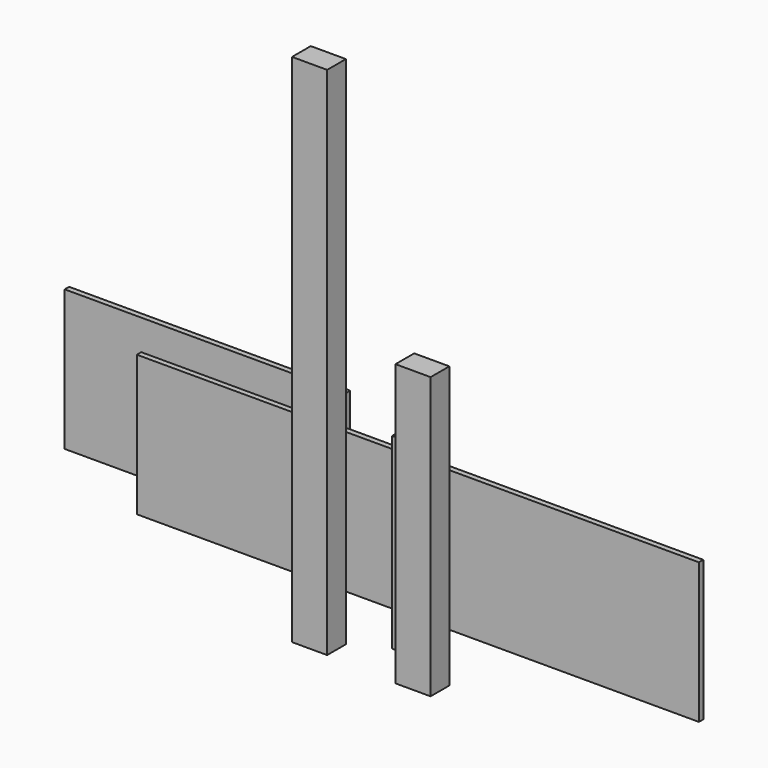
from build123d import *

# Parameters (mm, degrees)
F0_W     = 76.2
F0_H     = 50.8
F1_DEPTH = 406.4
F2_DEPTH = 609.6
F3_DEPTH = 1117.6
F0_W_2   = 1219.2
F0_H_2   = 11.938
F4_DEPTH = 304.8
F0_W_3   = 609.6
F5_DEPTH = 304.8


with BuildPart() as f1:
    # F0 (on Top) → F1 (new body)
    with BuildSketch(Plane.XY):
        Rectangle(F0_W, F0_H)
    extrude(amount=F1_DEPTH)


with BuildPart() as f2:
    # F0 (on Top) → F2 (new body)
    with BuildSketch(Plane.XY):
        with Locations((83.884548, -95.851874)):
            Rectangle(F0_W, F0_H)
    extrude(amount=F2_DEPTH)


with BuildPart() as f3:
    # F0 (on Top) → F3 (new body)
    with BuildSketch(Plane.XY):
        with Locations((-147.445146, -87.159132)):
            Rectangle(F0_W, F0_H)
    extrude(amount=F3_DEPTH)


with BuildPart() as f4:
    # F0 (on Top) → F4 (new body)
    with BuildSketch(Plane.XY):
        with Locations((-74.185945, 95.36725)):
            Rectangle(F0_W_2, F0_H_2)
    extrude(amount=F4_DEPTH)


with BuildPart() as f5:
    # F0 (on Top) → F5 (new body)
    with BuildSketch(Plane.XY):
        with Locations((-624.088034, 206.25208)):
            Rectangle(F0_W_3, F0_H_2)
    extrude(amount=F5_DEPTH)


solid = Compound([f1.part, f2.part, f3.part, f4.part, f5.part])
